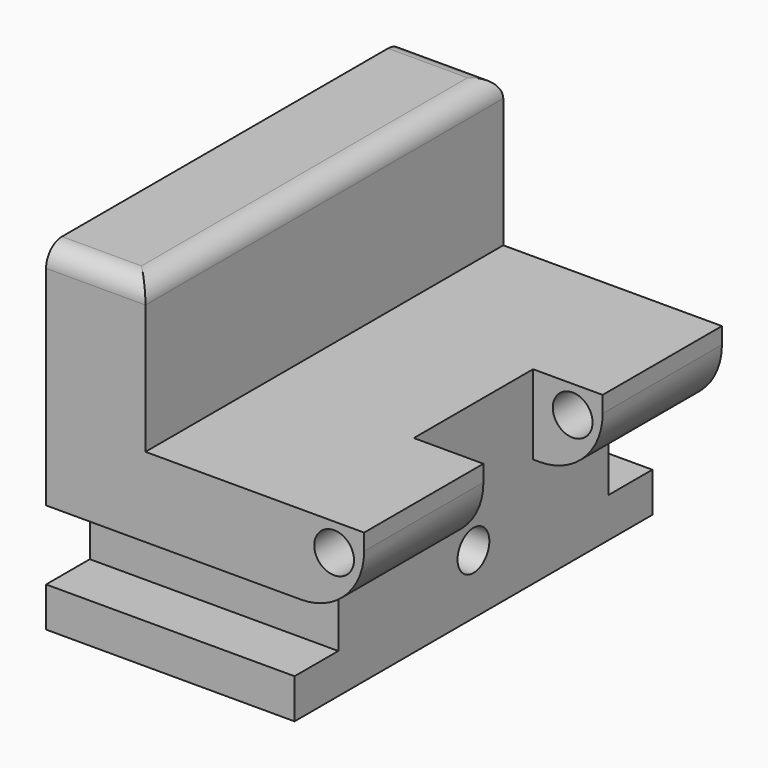
from build123d import *

# Parameters (mm, degrees)
F1_DEPTH       = 25
F2_W           = 15
F2_H           = 15
F3_DEPTH       = 45
F4_R           = 2
F6_D           = 4
F8_D           = 4
F8_DEPTH       = 15
F8_CSINK_D     = 4.5
F8_CSINK_ANGLE = 90
F8_TIP         = 1.2017212381
F9_R           = 2
F10_DEPTH      = 45
F11_W          = 13.5859974714
F11_H          = 15
F12_DEPTH      = 25.4


with BuildPart() as f1:
    # F0 (on Right) → F1 (new body)
    with BuildSketch(Plane.YZ):
        Polygon((0, 4), (0, 0), (45, 0), (45, 4), (39.5, 4), (39.5, 11), (45, 11), (45, 34), (0, 34), (0, 11), (5.5, 11), (5.5, 4), align=None)
    extrude(amount=F1_DEPTH)

    # F2 (on face) → F3 (cut, through all)
    with BuildSketch(Plane.XZ):
        with Locations((17.5, 26.5)):
            Rectangle(F2_W, F2_H)
    extrude(amount=-F3_DEPTH, mode=Mode.SUBTRACT)

    # F4
    f4_edges = [f1.edges().sort_by_distance(p)[0] for p in [
        (10, 22.5, 34),
        (5, 0, 34),
        (5, 45, 34),
    ]]
    fillet(f4_edges, radius=F4_R)

    # F6 (through all)
    with Locations(Plane(origin=(0, 0, 0), x_dir=(0, -1, 0), z_dir=(-1, 0, 0))):
        with Locations((-22.5, 6)):
            Hole(F6_D / 2)

    # F8
    with Locations(Plane(origin=(0, 0, 0), x_dir=(1, 0, 0), z_dir=(0, 0, -1))):
        with Locations((19.2, -9.6), (6.5, -9.6), (6.5, -35), (19.2, -35)):
            CounterSinkHole(F8_D / 2, F8_CSINK_D / 2, depth=F8_DEPTH, counter_sink_angle=F8_CSINK_ANGLE)
            with Locations((0, 0, -(F8_DEPTH + F8_TIP / 2))):  # 118° drill point
                Cone(0, F8_D / 2, F8_TIP, mode=Mode.SUBTRACT)

    # F9 (on face) → F10 (join, through all)
    with BuildSketch(Plane.XZ):
        with BuildLine():
            Line((32, 19), (25, 19))
            Line((25, 19), (25, 11))
            Line((25, 11), (25.65, 11))
            ThreePointArc((25.65, 11), (30.1401280605, 12.8598719395), (32, 17.35))
            Line((32, 17.35), (32, 19))
        make_face()
        with Locations((28.9811789989, 16.233060509)):
            Circle(F9_R, mode=Mode.SUBTRACT)
    extrude(amount=-F10_DEPTH)

    # F11 (on face) → F12 (cut)
    with BuildSketch(Plane(origin=(0, 0, 0), x_dir=(1, 0, 0), z_dir=(0, 0, -1))):
        with Locations((31.7929987357, -22.5)):
            Rectangle(F11_W, F11_H)
    extrude(amount=-F12_DEPTH, mode=Mode.SUBTRACT)


solid = f1.part
